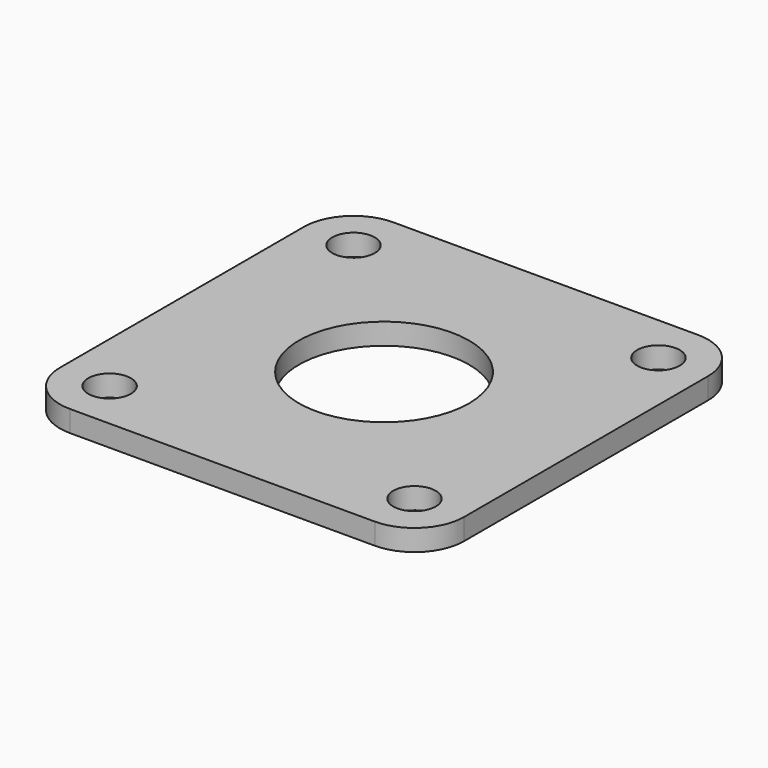
from build123d import *

# Parameters (mm, degrees)
F0_R     = 152.4
F0_R_2   = 609.6
F1_DEPTH = 152.4


with BuildPart() as f1:
    # F0 (on Top) → F1 (new body)
    with BuildSketch(Plane.XY):
        with BuildLine():
            Line((-1092.2, -1447.8), (1092.2, -1447.8))
            ThreePointArc((1092.2, -1447.8), (1343.647171, -1343.647171), (1447.8, -1092.2))
            Line((1447.8, -1092.2), (1447.8, 1092.2))
            ThreePointArc((1447.8, 1092.2), (1343.647171, 1343.647171), (1092.2, 1447.8))
            Line((1092.2, 1447.8), (-1092.2, 1447.8))
            ThreePointArc((-1092.2, 1447.8), (-1343.647171, 1343.647171), (-1447.8, 1092.2))
            Line((-1447.8, 1092.2), (-1447.8, -1092.2))
            ThreePointArc((-1447.8, -1092.2), (-1343.647171, -1343.647171), (-1092.2, -1447.8))
        make_face()
        with Locations((-1092.2, -1092.2)):
            Circle(F0_R, mode=Mode.SUBTRACT)
        with Locations((1092.2, -1092.2)):
            Circle(F0_R, mode=Mode.SUBTRACT)
        with Locations((-1092.2, 1092.2)):
            Circle(F0_R, mode=Mode.SUBTRACT)
        Circle(F0_R_2, mode=Mode.SUBTRACT)
        with Locations((1092.2, 1092.2)):
            Circle(F0_R, mode=Mode.SUBTRACT)
    extrude(amount=-F1_DEPTH)


solid = f1.part
